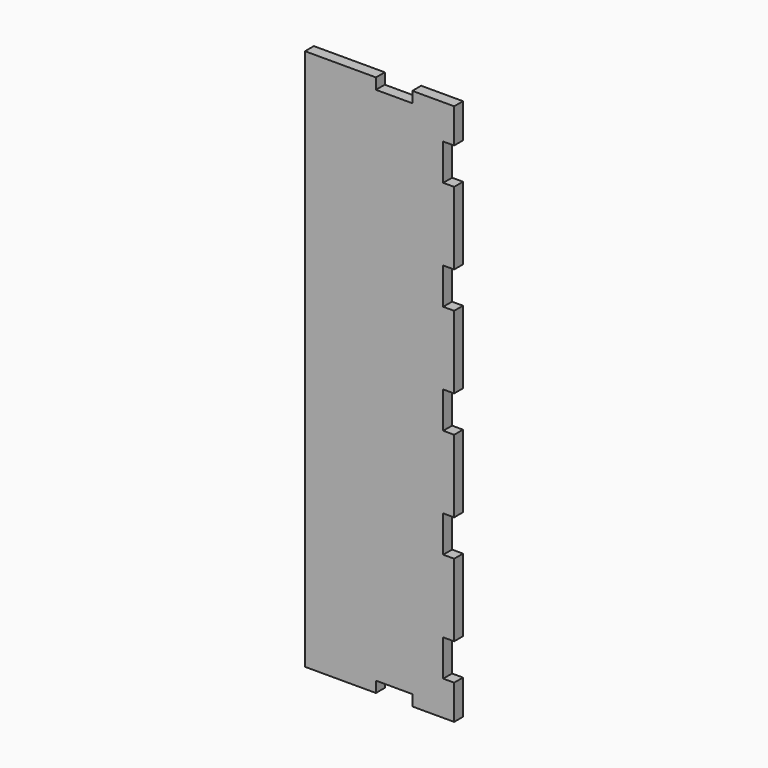
from build123d import *

# Parameters (mm, degrees)
F1_DEPTH = 3.048


with BuildPart() as f1:
    # F0 (on Front) → F1 (new body)
    with BuildSketch(Plane.XZ):
        Polygon((20.50001, -74.500003), (20.50001, -64.999997), (17.500016, -64.999997), (17.500016, -54.999992), (20.50001, -54.999992), (20.50001, -35.000006), (17.500016, -35.000006), (17.500016, -25.000001), (20.50001, -25.000001), (20.50001, -4.99999), (17.500016, -4.99999), (17.500016, 5.000015), (20.50001, 5.000015), (20.50001, 25.000001), (17.500016, 25.000001), (17.500016, 35.000006), (20.50001, 35.000006), (20.50001, 54.999992), (17.500016, 54.999992), (17.500016, 64.999997), (20.50001, 64.999997), (20.50001, 74.500003), (9.000007, 74.500003), (9.000007, 71.500009), (-0.999998, 71.500009), (-0.999998, 74.500003), (-20.499984, 74.500003), (-20.499984, -74.500003), (-0.999998, -74.500003), (-0.999998, -71.499984), (9.000007, -71.499984), (9.000007, -74.500003), align=None)
    extrude(amount=F1_DEPTH)


solid = f1.part
